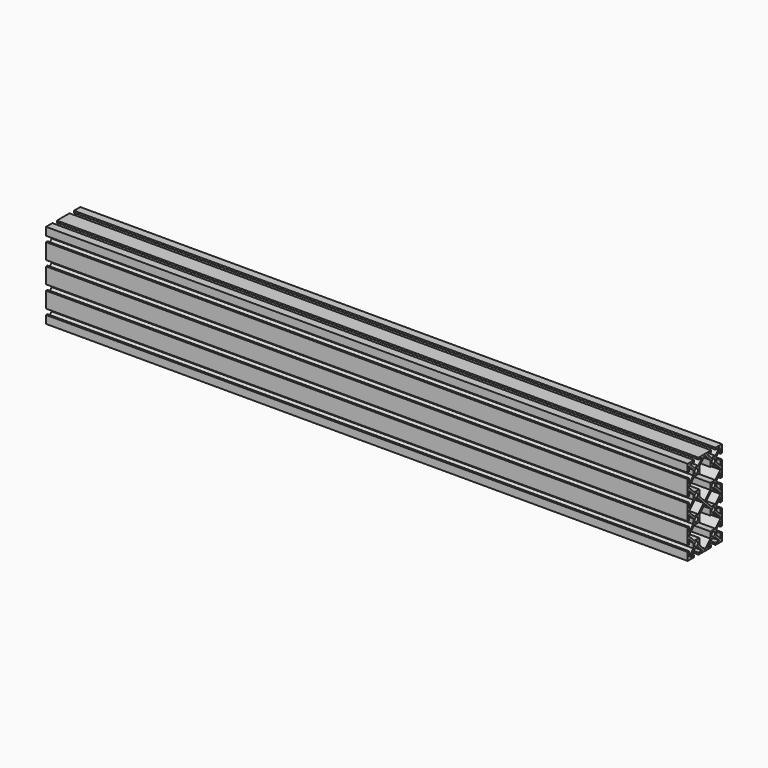
from build123d import *

# Parameters (mm, degrees)
F0_R     = 2.5
F1_DEPTH = 750


with BuildPart() as f1:
    # F0 (on Right) → F1 (new body)
    with BuildSketch(Plane.YZ):
        Polygon((-22.87, 25.623863), (-15.373863, 33.12), (-16.88, 33.12), (-16.88, 34.626137), (-22.87, 28.636137), (-22.87, 34.25), (-25, 34.25), (-25, 15.75), (-22.87, 15.75), (-22.87, 21.363863), (-16.88, 15.373863), (-16.88, 16.88), (-15.373863, 16.88), (-22.87, 24.376137), align=None)
        Polygon((-8.12, 40.373863), (-8.12, 41.88), (-9.626137, 41.88), (-15.373863, 41.88), (-16.88, 41.88), (-16.88, 40.373863), (-16.88, 34.626137), (-16.88, 33.12), (-15.373863, 33.12), (-8.12, 33.12), align=None)
        with Locations((-12.5, 37.5)):
            Circle(F0_R, mode=Mode.SUBTRACT)
        Polygon((-16.88, 41.88), (-15.373863, 41.88), (-21.363863, 47.87), (-15.75, 47.87), (-15.75, 50), (-25, 50), (-25, 40.75), (-22.87, 40.75), (-22.87, 46.363863), (-16.88, 40.373863), align=None)
        Polygon((-9.626137, 41.88), (-8.12, 41.88), (-8.12, 40.373863), (-0.623863, 47.87), (0, 47.87), (0.623863, 47.87), (8.12, 40.373863), (8.12, 41.88), (9.626137, 41.88), (3.636137, 47.87), (9.25, 47.87), (9.25, 50), (0, 50), (-9.25, 50), (-9.25, 47.87), (-3.636137, 47.87), align=None)
        Polygon((8.12, 41.88), (8.12, 40.373863), (8.12, 33.12), (15.373863, 33.12), (16.88, 33.12), (16.88, 34.626137), (16.88, 40.373863), (16.88, 41.88), (15.373863, 41.88), (9.626137, 41.88), align=None)
        with Locations((12.5, 37.5)):
            Circle(F0_R, mode=Mode.SUBTRACT)
        Polygon((-0.623863, -47.87), (-8.12, -40.373863), (-8.12, -41.88), (-9.626137, -41.88), (-3.636137, -47.87), (-9.25, -47.87), (-9.25, -50), (0, -50), (9.25, -50), (9.25, -47.87), (3.636137, -47.87), (9.626137, -41.88), (8.12, -41.88), (8.12, -40.373863), (0.623863, -47.87), (0, -47.87), align=None)
        Polygon((15.373863, -8.12), (9.626137, -8.12), (8.12, -8.12), (8.12, -9.626137), (8.12, -16.88), (15.373863, -16.88), (16.88, -16.88), (16.88, -15.373863), (16.88, -9.626137), (16.88, -8.12), align=None)
        with Locations((12.5, -12.5)):
            Circle(F0_R, mode=Mode.SUBTRACT)
        Polygon((16.88, -16.88), (15.373863, -16.88), (22.87, -24.376137), (22.87, -25.623863), (15.373863, -33.12), (16.88, -33.12), (16.88, -34.626137), (22.87, -28.636137), (22.87, -34.25), (25, -34.25), (25, -15.75), (22.87, -15.75), (22.87, -21.363863), (16.88, -15.373863), align=None)
        Polygon((-8.12, 16.88), (-15.373863, 16.88), (-16.88, 16.88), (-16.88, 15.373863), (-16.88, 9.626137), (-16.88, 8.12), (-15.373863, 8.12), (-9.626137, 8.12), (-8.12, 8.12), (-8.12, 9.626137), align=None)
        with Locations((-12.5, 12.5)):
            Circle(F0_R, mode=Mode.SUBTRACT)
        Polygon((8.12, 16.88), (8.12, 9.626137), (8.12, 8.12), (9.626137, 8.12), (15.373863, 8.12), (16.88, 8.12), (16.88, 9.626137), (16.88, 15.373863), (16.88, 16.88), (15.373863, 16.88), align=None)
        with Locations((12.5, 12.5)):
            Circle(F0_R, mode=Mode.SUBTRACT)
        Polygon((-22.87, -24.376137), (-15.373863, -16.88), (-16.88, -16.88), (-16.88, -15.373863), (-22.87, -21.363863), (-22.87, -15.75), (-25, -15.75), (-25, -34.25), (-22.87, -34.25), (-22.87, -28.636137), (-16.88, -34.626137), (-16.88, -33.12), (-15.373863, -33.12), (-22.87, -25.623863), align=None)
        Polygon((-8.12, -8.12), (-9.626137, -8.12), (-15.373863, -8.12), (-16.88, -8.12), (-16.88, -9.626137), (-16.88, -15.373863), (-16.88, -16.88), (-15.373863, -16.88), (-8.12, -16.88), (-8.12, -9.626137), align=None)
        with Locations((-12.5, -12.5)):
            Circle(F0_R, mode=Mode.SUBTRACT)
        Polygon((16.88, 8.12), (15.373863, 8.12), (22.87, 0.623863), (22.87, 0), (22.87, -0.623863), (15.373863, -8.12), (16.88, -8.12), (16.88, -9.626137), (22.87, -3.636137), (22.87, -9.25), (25, -9.25), (25, 0), (25, 9.25), (22.87, 9.25), (22.87, 3.636137), (16.88, 9.626137), align=None)
        Polygon((16.88, 33.12), (15.373863, 33.12), (22.87, 25.623863), (22.87, 24.376137), (15.373863, 16.88), (16.88, 16.88), (16.88, 15.373863), (22.87, 21.363863), (22.87, 15.75), (25, 15.75), (25, 34.25), (22.87, 34.25), (22.87, 28.636137), (16.88, 34.626137), align=None)
        Polygon((-16.88, 8.12), (-16.88, 9.626137), (-22.87, 3.636137), (-22.87, 9.25), (-25, 9.25), (-25, 0), (-25, -9.25), (-22.87, -9.25), (-22.87, -3.636137), (-16.88, -9.626137), (-16.88, -8.12), (-15.373863, -8.12), (-22.87, -0.623863), (-22.87, 0), (-22.87, 0.623863), (-15.373863, 8.12), align=None)
        Polygon((21.363863, 47.87), (15.373863, 41.88), (16.88, 41.88), (16.88, 40.373863), (22.87, 46.363863), (22.87, 40.75), (25, 40.75), (25, 50), (15.75, 50), (15.75, 47.87), align=None)
        Polygon((22.87, -46.363863), (16.88, -40.373863), (16.88, -41.88), (15.373863, -41.88), (21.363863, -47.87), (15.75, -47.87), (15.75, -50), (25, -50), (25, -40.75), (22.87, -40.75), align=None)
        Polygon((-16.88, -41.88), (-16.88, -40.373863), (-22.87, -46.363863), (-22.87, -40.75), (-25, -40.75), (-25, -50), (-15.75, -50), (-15.75, -47.87), (-21.363863, -47.87), (-15.373863, -41.88), align=None)
        Polygon((16.88, -33.12), (15.373863, -33.12), (8.12, -33.12), (8.12, -40.373863), (8.12, -41.88), (9.626137, -41.88), (15.373863, -41.88), (16.88, -41.88), (16.88, -40.373863), (16.88, -34.626137), align=None)
        with Locations((12.5, -37.5)):
            Circle(F0_R, mode=Mode.SUBTRACT)
        Polygon((0, 1.506137), (-8.12, 9.626137), (-8.12, 8.12), (-9.626137, 8.12), (-1.506137, 0), (-9.626137, -8.12), (-8.12, -8.12), (-8.12, -9.626137), (0, -1.506137), (8.12, -9.626137), (8.12, -8.12), (9.626137, -8.12), (1.506137, 0), (9.626137, 8.12), (8.12, 8.12), (8.12, 9.626137), align=None)
        Polygon((-8.12, -33.12), (-15.373863, -33.12), (-16.88, -33.12), (-16.88, -34.626137), (-16.88, -40.373863), (-16.88, -41.88), (-15.373863, -41.88), (-9.626137, -41.88), (-8.12, -41.88), (-8.12, -40.373863), align=None)
        with Locations((-12.5, -37.5)):
            Circle(F0_R, mode=Mode.SUBTRACT)
    extrude(amount=F1_DEPTH)


solid = f1.part
